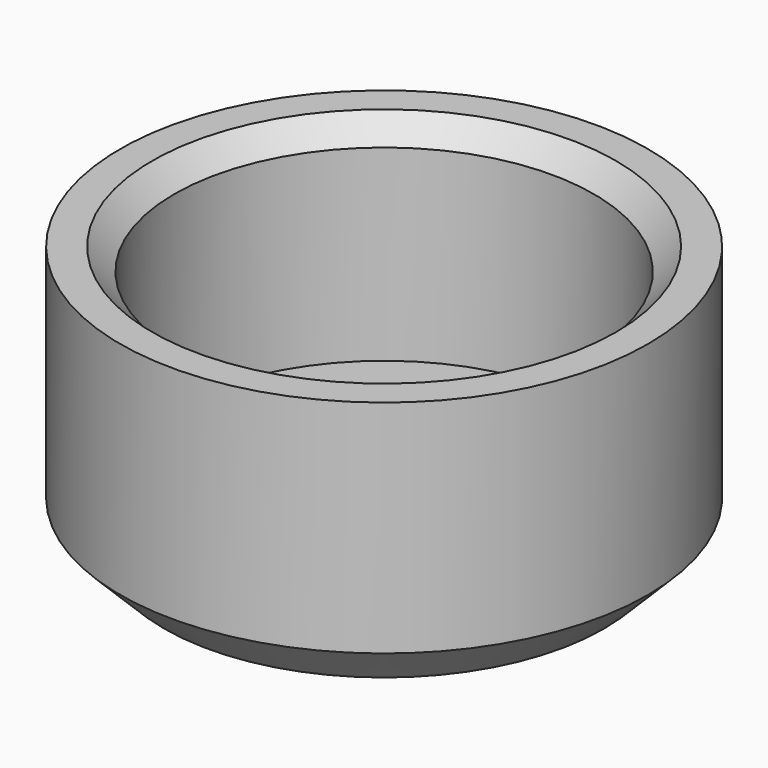
from build123d import *

# Parameters (mm, degrees)
F2_SIZE = 2
F3_SIZE = 4
F5_D    = 5


with BuildPart() as f1:
    # F0 (on Front) → F1 (revolve)
    with BuildSketch(Plane.XZ):
        Polygon((0, 5), (0, 0), (23.9, 0), (23.9, 24), (19, 24), (19, 5), align=None)
    revolve(axis=Axis((0, 0, 12.3709159863), (0, 0, 1)))

    # F2
    f2_edges = [f1.edges().sort_by_distance(p)[0] for p in [
        (-19, 0, 24),
    ]]
    chamfer(f2_edges, length=F2_SIZE)

    # F3
    f3_edges = [f1.edges().sort_by_distance(p)[0] for p in [
        (-23.9, 0, 0),
    ]]
    chamfer(f3_edges, length=F3_SIZE)

    # F5 (through all)
    with Locations(Plane.XY.offset(5)):
        with Locations((-12.5, 0), (12.5, 0)):
            Hole(F5_D / 2)


solid = f1.part
